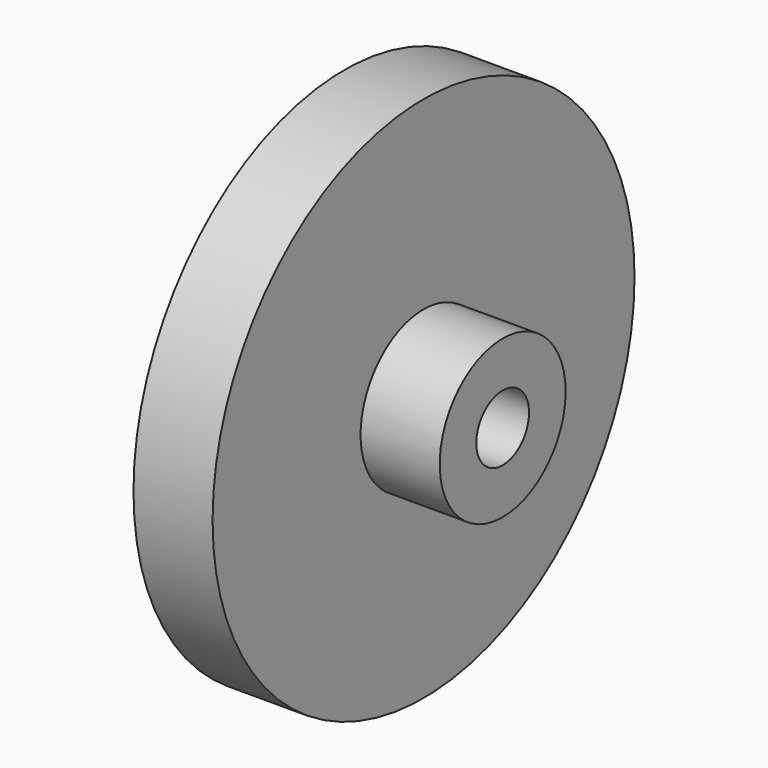
from build123d import *

# Parameters (mm, degrees)
F0_W = 15.24
F0_H = 8.808064


with BuildPart() as f1:
    # F0 (on Top) → F1 (revolve)
    with BuildSketch(Plane.XY):
        Polygon((-0.532581, 50.8), (-15.772581, 50.8), (-15.772581, 6.35), (-0.532581, 6.35), (-0.532581, 15.158064), align=None)
        with Locations((7.087419, 10.754032)):
            Rectangle(F0_W, F0_H)
    revolve(axis=Axis((7.087419, 0, 0), (1, 0, 0)))


solid = f1.part
